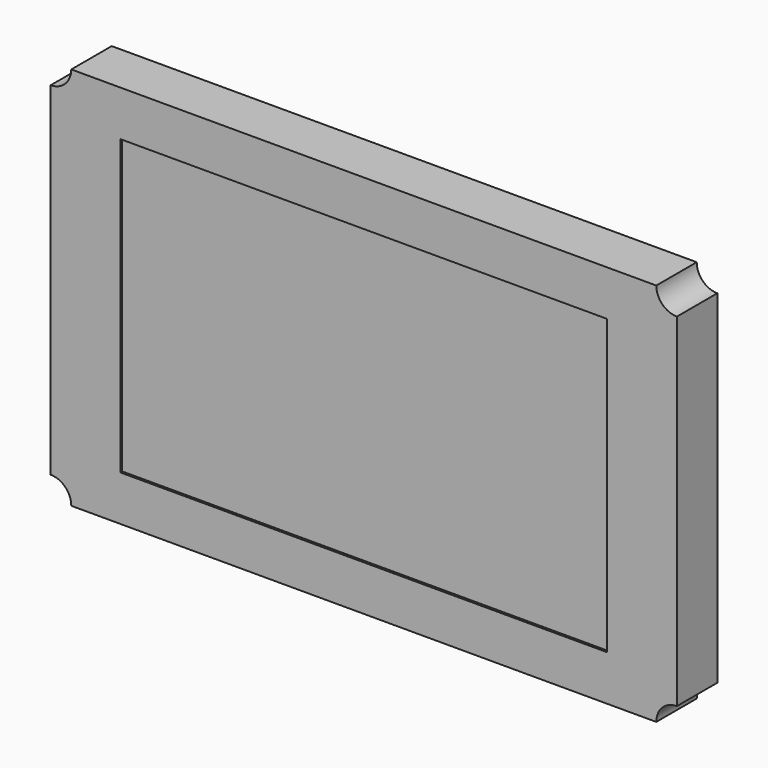
from build123d import *

# Parameters (mm, degrees)
F0_W     = 173.482
F0_H     = 106.426
F1_DEPTH = 14
F2_W     = 134.874
F2_H     = 81.295477
F3_DEPTH = 0.635
F4_R     = 5.715
F5_DEPTH = 25.4


with BuildPart() as f1:
    # F0 (on Front) → F1 (new body)
    with BuildSketch(Plane.XZ):
        with Locations((9.842499, 27.721002)):
            Rectangle(F0_W, F0_H)
    extrude(amount=F1_DEPTH)

    # F2 (on face) → F3 (cut)
    with BuildSketch(Plane.XZ.offset(14)):
        with Locations((9.842499, 27.71604)):
            Rectangle(F2_W, F2_H)
    extrude(amount=-F3_DEPTH, mode=Mode.SUBTRACT)

    # F4 (on face) → F5 (cut)
    with BuildSketch(Plane.XZ.offset(14)):
        with Locations((-76.898501, 80.934002)):
            Circle(F4_R)
        with Locations((-76.898501, -25.491998)):
            Circle(F4_R)
        with BuildLine():
            ThreePointArc((102.298499, -25.491998), (96.583499, -19.776998), (90.868499, -25.491998))
            ThreePointArc((90.868499, -25.491998), (96.583499, -31.206998), (102.298499, -25.491998))
        make_face()
        with BuildLine():
            ThreePointArc((102.298499, 80.934002), (96.583499, 86.649002), (90.868499, 80.934002))
            ThreePointArc((90.868499, 80.934002), (96.583499, 75.219002), (102.298499, 80.934002))
        make_face()
    extrude(amount=-F5_DEPTH, mode=Mode.SUBTRACT)


solid = f1.part
